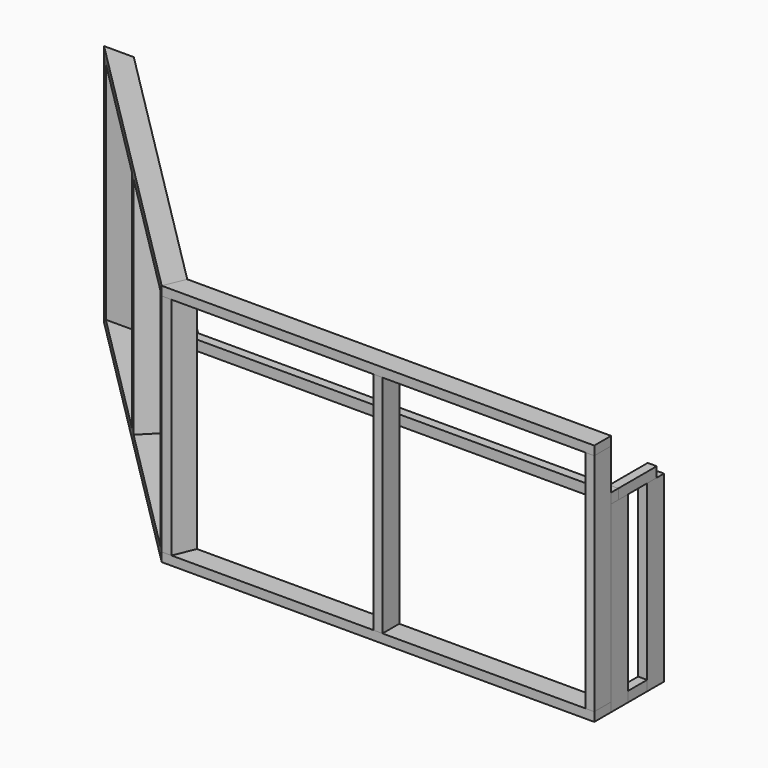
from build123d import *

# Parameters (mm, degrees)
F1_DEPTH  = 38.1
F3_DEPTH  = 38.1
F5_DEPTH  = 952.5
F6_W      = 38.1
F6_H      = 88.9
F7_DEPTH  = 952.5
F9_DEPTH  = 952.5
F11_DEPTH = 952.5
F13_DEPTH = 38.1
F15_DEPTH = 952.5
F17_DEPTH = 38.1
F19_DEPTH = 952.5
F20_W     = 88.9
F20_H     = 774.7
F21_DEPTH = 38.1
F22_W     = 101.6
F22_H     = 42.8625
F23_DEPTH = 38.1
F24_DEPTH = 38.1
F25_W     = 88.9
F25_H     = 774.7
F26_DEPTH = 38.1
F28_DEPTH = 42.8625
F29_W     = 203.2
F29_H     = 42.8625
F30_DEPTH = 38.1
F32_DEPTH = 42.8625


with BuildPart() as f1:
    # F0 (on Top) → F1 (new body)
    with BuildSketch(Plane.XY):
        Polygon((0, -88.9), (0, 0), (-1791.976414305, 0), (-1828.8, -88.9), align=None)
    extrude(amount=F1_DEPTH)


with BuildPart() as f3:
    # F2 (on Top) → F3 (new body, through all)
    with BuildSketch(Plane.XY):
        Polygon((-3048, 1130.3), (-1828.8, -88.9), (-1791.976414305, 0), (-2922.276414305, 1130.3), align=None)
    extrude(amount=F3_DEPTH)


with BuildPart() as f5:
    # F4 (on face) → F5 (new body)
    with BuildSketch(Plane.XY.offset(38.1)):
        Polygon((-1857.9604775462, -59.7395224538), (-1828.8, -88.9), (-1791.976414305, 0), (-1821.1368918513, 29.1604775462), align=None)
    extrude(amount=F5_DEPTH)


with BuildPart() as f7:
    # F6 (on face) → F7 (new body, through all)
    with BuildSketch(Plane.XY.offset(38.1)):
        with Locations((-19.05, -44.45)):
            Rectangle(F6_W, F6_H)
    extrude(amount=F7_DEPTH)


with BuildPart() as f9:
    # F8 (on face) → F9 (new body, through all)
    with BuildSketch(Plane.XY.offset(38.1)):
        Polygon((-1750.7372714739, 0), (-1791.976414305, 0), (-1828.8, -88.9), (-1787.5608571689, -88.9), align=None)
    extrude(amount=F9_DEPTH)


with BuildPart() as f11:
    # F10 (on face) → F11 (new body, through all)
    with BuildSketch(Plane.XY.offset(38.1)):
        Polygon((-933.45, -88.9), (-914.4, -88.9), (-895.35, -88.9), (-895.35, 0), (-933.45, 0), align=None)
    extrude(amount=F11_DEPTH)


with BuildPart() as f13:
    # F12 (on face) → F13 (new body)
    with BuildSketch(Plane.XY.offset(990.6)):
        Polygon((-1791.976414305, 0), (-1828.8, -88.9), (0, -88.9), (0, 0), align=None)
    extrude(amount=F13_DEPTH)


with BuildPart() as f15:
    # F14 (on face) → F15 (new body, through all)
    with BuildSketch(Plane.XY.offset(38.1)):
        Polygon((-2922.276414305, 1130.3), (-3048, 1130.3), (-3009.9, 1092.2), (-2884.176414305, 1092.2), align=None)
    extrude(amount=F15_DEPTH)


with BuildPart() as f17:
    # F16 (on face) → F17 (new body, through all)
    with BuildSketch(Plane.XY.offset(990.6)):
        Polygon((-3048, 1130.3), (-1828.8, -88.9), (-1791.976414305, 0), (-2922.276414305, 1130.3), align=None)
    extrude(amount=F17_DEPTH)


with BuildPart() as f19:
    # F18 (on face) → F19 (new body, through all)
    with BuildSketch(Plane.XY.offset(38.1)):
        Polygon((-2451.8703841816, 534.1703841816), (-2438.4, 520.7), (-2424.9296158184, 507.2296158184), (-2362.0678229709, 570.0914086659), (-2389.0085913341, 597.0321770291), align=None)
    extrude(amount=F19_DEPTH)


with BuildPart() as f21:
    # F20 (on face) → F21 (new body, through all)
    with BuildSketch(Plane.YZ):
        with Locations((44.45, 387.35)):
            Rectangle(F20_W, F20_H)
    extrude(amount=-F21_DEPTH)


with BuildPart() as f23:
    # F22 (on face) → F23 (new body, through all)
    with BuildSketch(Plane.YZ):
        with Locations((139.7, 21.43125)):
            Rectangle(F22_W, F22_H)
    extrude(amount=-F23_DEPTH)


with BuildPart() as f24:
    # F22 (on face) → F24 (new body, through all)
    with BuildSketch(Plane.YZ):
        with Locations((139.7, 21.43125)):
            Rectangle(F22_W, F22_H)
    extrude(amount=-F24_DEPTH)


with BuildPart() as f26:
    # F25 (on face) → F26 (new body, through all)
    with BuildSketch(Plane.YZ):
        with Locations((234.95, 387.35)):
            Rectangle(F25_W, F25_H)
    extrude(amount=-F26_DEPTH)


with BuildPart() as f28:
    # F27 (on face) → F28 (new body)
    with BuildSketch(Plane.XY.offset(774.7)):
        Polygon((-1791.976414305, 0), (0, 0), (0, 38.1), (-1776.1948775786, 38.1), align=None)
    extrude(amount=F28_DEPTH)


with BuildPart() as f30:
    # F29 (on face) → F30 (new body, through all)
    with BuildSketch(Plane.YZ):
        with Locations((139.7, 796.13125)):
            Rectangle(F29_W, F29_H)
    extrude(amount=-F30_DEPTH)


with BuildPart() as f32:
    # F31 (on face) → F32 (new body, through all)
    with BuildSketch(Plane.XY.offset(817.5625)):
        Polygon((-2922.276414305, 1130.3), (-1791.976414305, 0), (-1776.1948775786, 38.1), (-2868.3948775786, 1130.3), align=None)
    extrude(amount=-F32_DEPTH)


solid = Compound([f1.part, f3.part, f5.part, f7.part, f9.part, f11.part, f13.part, f15.part, f17.part, f19.part, f21.part, f23.part, f24.part, f26.part, f28.part, f30.part, f32.part])
